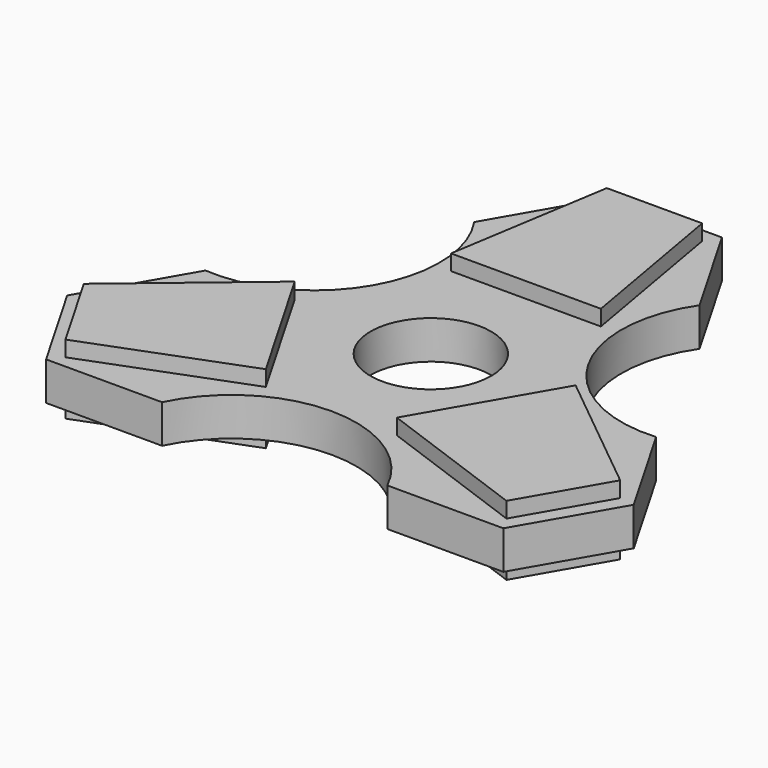
from build123d import *

# Parameters (mm, degrees)
F1_DEPTH = 3.5
F2_R     = 11
F3_DEPTH = 63.5
F5_DEPTH = 6.35


with BuildPart() as f1:
    # F0 (on Top) → F1 (new body, symmetric)
    with BuildSketch(Plane.XY):
        with BuildLine():
            Line((20.552645, -35.598226), (41.713538, -35.598226))
            Line((41.713538, -35.598226), (51.685737, -18.325871))
            Line((51.685737, -18.325871), (41.105291, 0))
            ThreePointArc((41.105291, 0), (19.628403, 11.332464), (20.552645, 35.598226))
            Line((20.552645, 35.598226), (9.972199, 53.924097))
            Line((9.972199, 53.924097), (-9.972199, 53.924097))
            Line((-9.972199, 53.924097), (-20.552645, 35.598226))
            ThreePointArc((-20.552645, 35.598226), (-19.628403, 11.332464), (-41.105291, 0))
            Line((-41.105291, 0), (-51.685737, -18.325871))
            Line((-51.685737, -18.325871), (-41.713538, -35.598226))
            Line((-41.713538, -35.598226), (-20.552645, -35.598226))
            ThreePointArc((-20.552645, -35.598226), (0, -22.664928), (20.552645, -35.598226))
        make_face()
    extrude(amount=F1_DEPTH, both=True)

    # F2 (on face) → F3 (cut)
    with BuildSketch(Plane.XY.offset(3.5)):
        Circle(F2_R)
    extrude(amount=-F3_DEPTH, mode=Mode.SUBTRACT)

    # F4 (on Top) → F5 (join, symmetric)
    with BuildSketch(Plane.XY):
        Polygon((8.473816, 51.294833), (-8.925753, 51.294833), (-13.671091, 21.692971), (13.671093, 21.692971), align=None)
        Polygon((-11.951118, -22.685997), (-25.62221, 0.993028), (-48.659537, -18.308877), (-39.959752, -33.377345), align=None)
        Polygon((25.622209, 0.993027), (11.951117, -22.685999), (40.185721, -32.985957), (48.885505, -17.917488), align=None)
    extrude(amount=F5_DEPTH, both=True)


solid = f1.part
